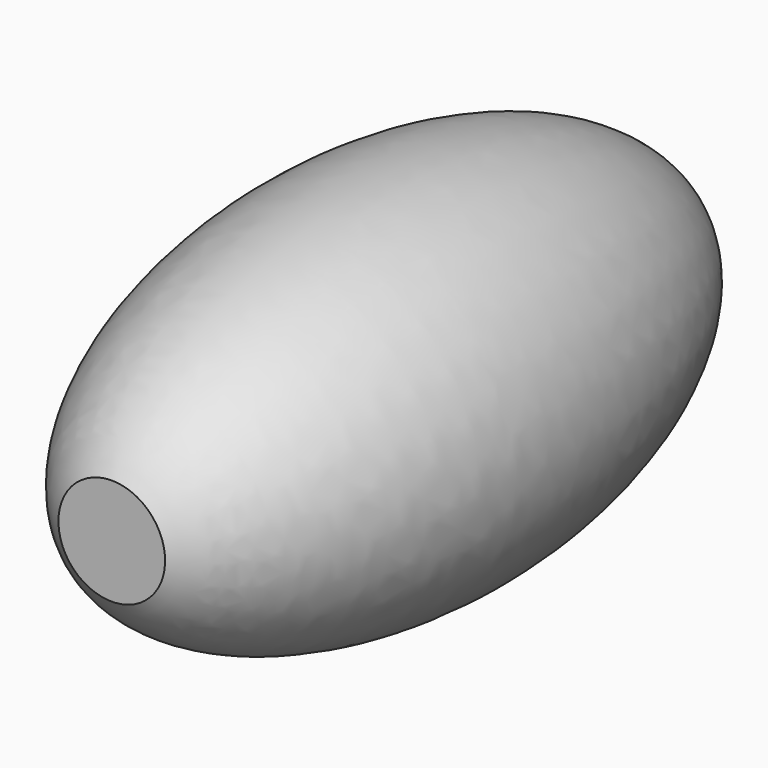
from build123d import *


with BuildPart() as part:
    # Sketch → Revolution (revolve)
    with BuildSketch(Plane.YZ):
        with BuildLine():
            Line((0, 0), (0, 19))
            add(Edge.make_bspline(
                [(240, 22.5), (109.879518, 203.450105), (0, 19)],
                knots=[0.353468, 0.353468, 0.353468, 2.844954, 2.844954, 2.844954], degree=2, weights=[1, 0.31936, 1]))
            Line((240, 22.5), (240, 0))
            Line((240, 0), (0, 0))
        make_face()
    revolve(axis=Axis((0, 0, 0), (0, 1, 0)))


solid = part.part
